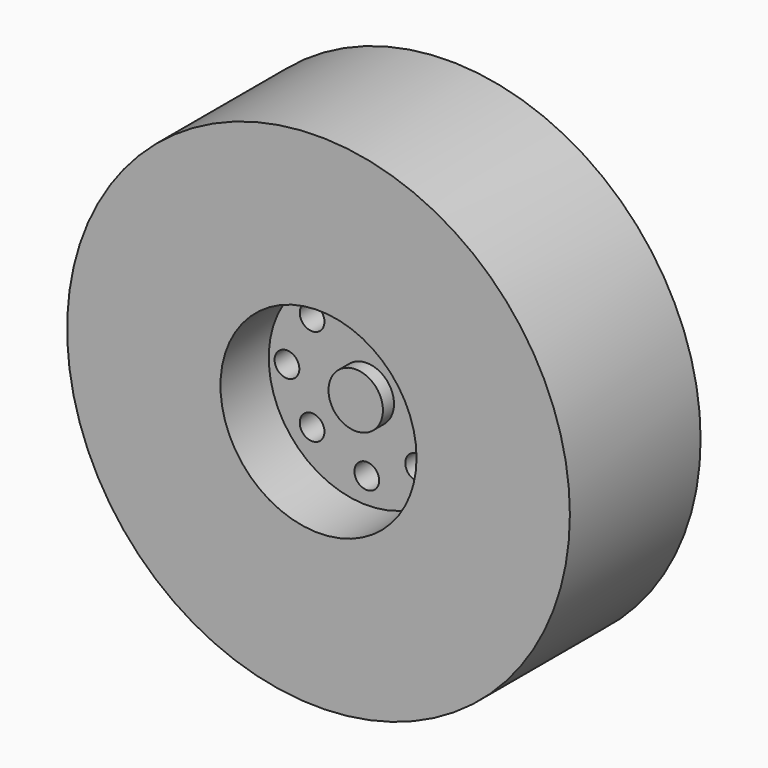
from build123d import *

# Parameters (mm, degrees)
F0_R     = 50.8
F1_DEPTH = 33.02
F2_R     = 19.812
F3_DEPTH = 12.192
F4_R     = 5.5
F5_DEPTH = 2.794
F6_R     = 2.5
F7_DEPTH = 25.4
F8_R     = 5.5
F9_DEPTH = 18.288


with BuildPart() as f1:
    # F0 (on Front) → F1 (new body)
    with BuildSketch(Plane.XZ):
        Circle(F0_R)
    extrude(amount=F1_DEPTH)

    # F2 (on face) → F3 (cut)
    with BuildSketch(Plane.XZ.offset(33.02)):
        Circle(F2_R)
    extrude(amount=-F3_DEPTH, mode=Mode.SUBTRACT)

    # F4 (on face) → F5 (join)
    with BuildSketch(Plane.XZ.offset(20.828)):
        Circle(F4_R)
    extrude(amount=F5_DEPTH)

    # F6 (on face) → F7 (cut)
    with BuildSketch(Plane.XZ.offset(20.828)):
        with Locations((0, 15.8750005066)):
            Circle(F6_R)
        with Locations((-11.048999615, 10.0330002606)):
            Circle(F6_R)
        with Locations((-16.1290001124, 0)):
            Circle(F6_R)
        with Locations((-11.048999615, -9.5250001177)):
            Circle(F6_R)
        with Locations((0, -14.6050006151)):
            Circle(F6_R)
        with Locations((10.286998935, -9.7789997235)):
            Circle(F6_R)
        with Locations((16.3829997182, 0)):
            Circle(F6_R)
        with Locations((10.286998935, 10.0330002606)):
            Circle(F6_R)
    extrude(amount=-F7_DEPTH, mode=Mode.SUBTRACT)

    # F8 (on face) → F9 (join)
    with BuildSketch(Plane(origin=(0, 0, 0), x_dir=(-1, 0, 0), z_dir=(0, 1, 0))):
        Circle(F8_R)
    extrude(amount=F9_DEPTH)


solid = f1.part
